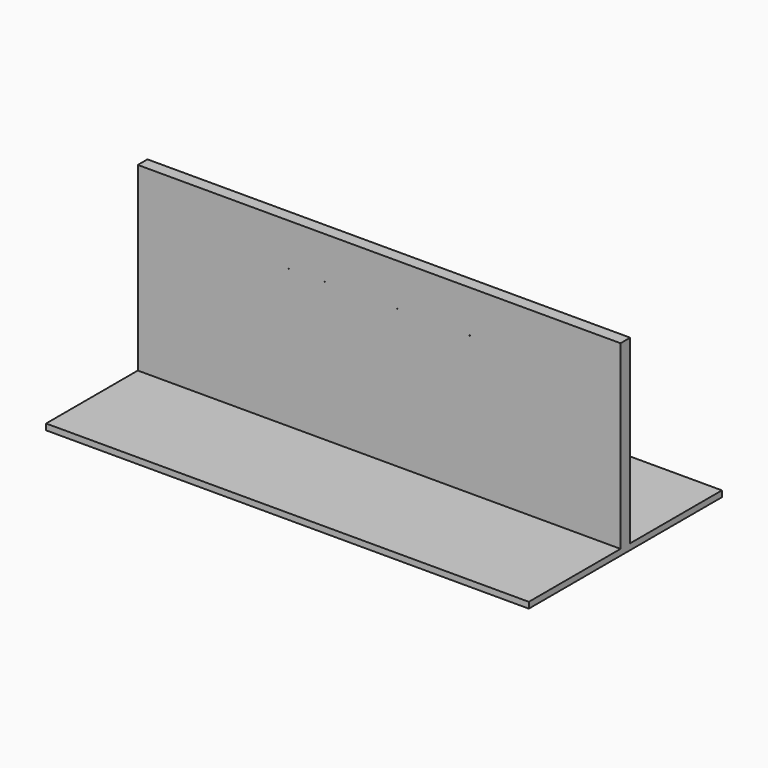
from build123d import *

# Parameters (mm, degrees)
F0_W     = 8000
F0_H     = 4000
F1_DEPTH = 100
F3_DEPTH = 3000
F5_D     = 8


with BuildPart() as f1:
    # F0 (on Top) → F1 (new body)
    with BuildSketch(Plane.XY):
        Rectangle(F0_W, F0_H)
    extrude(amount=F1_DEPTH)

    # F2 (on face) → F3 (join)
    with BuildSketch(Plane.XY.offset(100)):
        Polygon((-4000, 100), (-4000, 0), (-4000, -100), (4000, -100), (4000, 100), align=None)
    extrude(amount=F3_DEPTH)

    # F5 (through all)
    with Locations(Plane.XZ.offset(100)):
        with Locations((-1500, 2400), (-900, 2400), (-300, 2400), (300, 2400), (900, 2400), (1500, 2400)):
            Hole(F5_D / 2)


solid = f1.part
